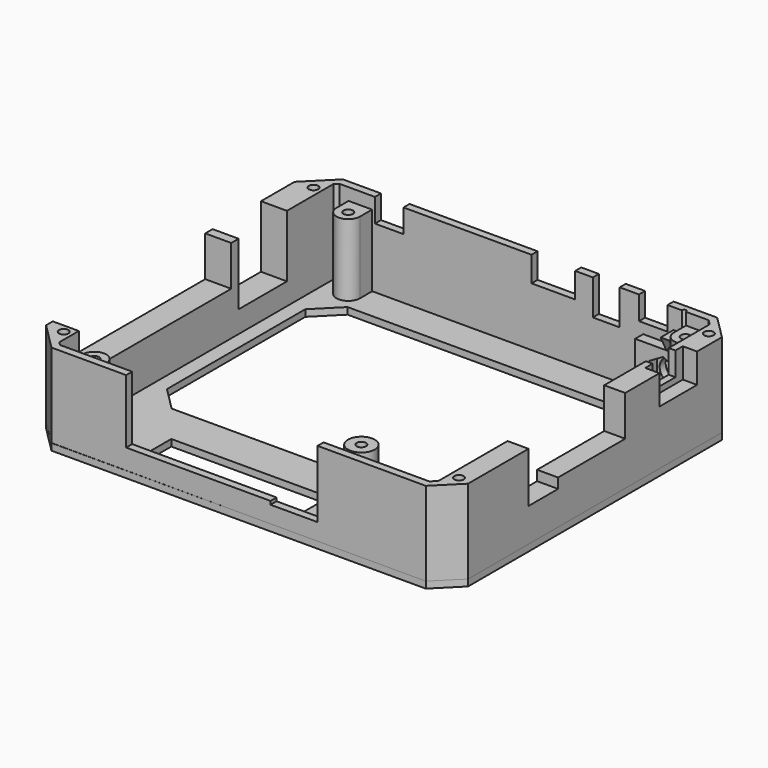
from build123d import *

# Parameters (mm, degrees)
BOX013_W                   = 14
BOX013_H                   = 3
BOX013_DEPTH               = 18
CYLINDER006_R              = 3.5
CYLINDER006_DEPTH          = 8
CYLINDER006_ROLL_ANGLE     = -90
CYLINDER_R                 = 0.6
CYLINDER_DEPTH             = 11
PRISM_DEPTH                = 10
PRISM_ROLL_ANGLE           = 90.00003
PRISM_PITCH_ANGLE          = -30.000033
PRISM_PLACEMENT_ANGLE      = -8e-06
BOX001_W                   = 10
BOX001_H                   = 18
BOX001_DEPTH               = 20
BOX002_W                   = 10
BOX002_H                   = 11
BOX002_DEPTH               = 15
BOX003_W                   = 10
BOX003_H                   = 25
BOX003_DEPTH               = 12
BOX004_W                   = 8.5
BOX004_H                   = 4
BOX004_DEPTH               = 7
BOX005_W                   = 8
BOX005_H                   = 4
BOX005_DEPTH               = 10.5
BOX006_W                   = 8.5
BOX006_H                   = 4
BOX006_DEPTH               = 7
BOX007_W                   = 13
BOX007_H                   = 4
BOX007_DEPTH               = 8
BOX008_W                   = 10
BOX008_H                   = 8.5
BOX008_DEPTH               = 8
BOX009_W                   = 5
BOX009_H                   = 14
BOX009_DEPTH               = 9
BOX010_W                   = 43
BOX010_H                   = 4
BOX010_DEPTH               = 19
SKETCH075_R                = 1.4
EXTRUDE_DEPTH              = 12
BOX011_W                   = 14
BOX011_H                   = 4
BOX011_DEPTH               = 12
BOX_W                      = 10
BOX_H                      = 56.75
BOX_DEPTH                  = 12
EXTRUDE073_DEPTH           = 25
EXTRUDE072_DEPTH           = 25
SKETCH072_R                = 4
SKETCH072_R_2              = 1.4
SKETCH072_R_3              = 2.25
EXTRUDE071_DEPTH           = 22.4
BOX012_W                   = 13
BOX012_H                   = 3
BOX012_DEPTH               = 15
EXTRUDE080_DEPTH           = 2.5
SKETCH071_W                = 47
SKETCH071_H                = 15
EXTRUDE070_DEPTH           = 2
EXTRUDE070_ROLL_ANGLE      = -0.000172
EXTRUDE070_PITCH_ANGLE     = -0.040176
EXTRUDE070_PLACEMENT_ANGLE = 2.8e-05


with BuildPart() as cube013:
    # Box013 → Box013 (new body)
    with BuildSketch(Plane(origin=(8, -54.5, 7), x_dir=(1, 0, 0), z_dir=(0, 0, 1))):
        with Locations((7, 1.5)):
            Rectangle(BOX013_W, BOX013_H)
    extrude(amount=BOX013_DEPTH)


with BuildPart() as cylinder006:
    # Cylinder006 → Cylinder006 (new body)
    with BuildSketch(Plane.XY):
        Circle(CYLINDER006_R)
    extrude(amount=CYLINDER006_DEPTH)


with BuildPart() as cylinder006_1:
    # Cylinder006 roll: moved
    add(cylinder006.part.rotate(Axis((0, 0, 0), (1, 0, 0)), CYLINDER006_ROLL_ANGLE))


with BuildPart() as cylinder006_2:
    # Cylinder006 placement: moved
    add(cylinder006_1.part.moved(Location((42.4, 48, 10))))


with BuildPart() as cylinder:
    # Cylinder → Cylinder (new body)
    with BuildSketch(Plane(origin=(46.125, 51.85, 17), x_dir=(1, 0, 0), z_dir=(0, 0, 1))):
        Circle(CYLINDER_R)
    extrude(amount=CYLINDER_DEPTH)


with BuildPart() as fusion032:
    # Prism → Prism (new body)
    with BuildSketch(Plane.XY):
        Polygon((5, 0), (2.5, 4.330127), (-2.5, 4.330127), (-5, 0), (-2.5, -4.330127), (2.5, -4.330127), align=None)
    extrude(amount=PRISM_DEPTH)


with BuildPart() as fusion032_1:
    # Prism roll: moved
    add(fusion032.part.rotate(Axis((0, 0, 0), (1, 0, 0)), PRISM_ROLL_ANGLE))


with BuildPart() as fusion032_2:
    # Prism pitch: moved
    add(fusion032_1.part.rotate(Axis((0, 0, 0), (0, 1, 0)), PRISM_PITCH_ANGLE))


with BuildPart() as fusion032_3:
    # Prism placement: moved
    add(fusion032_2.part.moved(Location((42.4, 51.75, 10))).rotate(Axis((42.4, 51.75, 10), (0, 0, 1)), PRISM_PLACEMENT_ANGLE))

    # Fusion032: union Cylinder006, Cylinder
    add(cylinder006_2.part)
    add(cylinder.part)


with BuildPart() as cube001:
    # Box001 → Box001 (new body)
    with BuildSketch(Plane(origin=(-67, 15.5, 8.5), x_dir=(1, 0, 0), z_dir=(0, 0, 1))):
        with Locations((5, 9)):
            Rectangle(BOX001_W, BOX001_H)
    extrude(amount=BOX001_DEPTH)


with BuildPart() as cube002:
    # Box002 → Box002 (new body)
    with BuildSketch(Plane(origin=(54, -25, 12), x_dir=(1, 0, 0), z_dir=(0, 0, 1))):
        with Locations((5, 5.5)):
            Rectangle(BOX002_W, BOX002_H)
    extrude(amount=BOX002_DEPTH)


with BuildPart() as cube003:
    # Box003 → Box003 (new body)
    with BuildSketch(Plane(origin=(54, -14, 15), x_dir=(1, 0, 0), z_dir=(0, 0, 1))):
        with Locations((5, 12.5)):
            Rectangle(BOX003_W, BOX003_H)
    extrude(amount=BOX003_DEPTH)


with BuildPart() as cube004:
    # Box004 → Box004 (new body)
    with BuildSketch(Plane(origin=(32.75, 51, 20), x_dir=(1, 0, 0), z_dir=(0, 0, 1))):
        with Locations((4.25, 2)):
            Rectangle(BOX004_W, BOX004_H)
    extrude(amount=BOX004_DEPTH)


with BuildPart() as cube005:
    # Box005 → Box005 (new body)
    with BuildSketch(Plane(origin=(19, 51, 16.5), x_dir=(1, 0, 0), z_dir=(0, 0, 1))):
        with Locations((4, 2)):
            Rectangle(BOX005_W, BOX005_H)
    extrude(amount=BOX005_DEPTH)


with BuildPart() as cube006:
    # Box006 → Box006 (new body)
    with BuildSketch(Plane(origin=(-45.9, 51, 20), x_dir=(1, 0, 0), z_dir=(0, 0, 1))):
        with Locations((4.25, 2)):
            Rectangle(BOX006_W, BOX006_H)
    extrude(amount=BOX006_DEPTH)


with BuildPart() as cube007:
    # Box007 → Box007 (new body)
    with BuildSketch(Plane(origin=(0.75, 51, 19.5), x_dir=(1, 0, 0), z_dir=(0, 0, 1))):
        with Locations((6.5, 2)):
            Rectangle(BOX007_W, BOX007_H)
    extrude(amount=BOX007_DEPTH)


with BuildPart() as cube008:
    # Box008 → Box008 (new body)
    with BuildSketch(Plane(origin=(54, 26.5, 20), x_dir=(1, 0, 0), z_dir=(0, 0, 1))):
        with Locations((5, 4.25)):
            Rectangle(BOX008_W, BOX008_H)
    extrude(amount=BOX008_DEPTH)


with BuildPart() as cube009:
    # Box009 → Box009 (new body)
    with BuildSketch(Plane(origin=(57, 23.75, 18.25), x_dir=(1, 0, 0), z_dir=(0, 0, 1))):
        with Locations((2.5, 7)):
            Rectangle(BOX009_W, BOX009_H)
    extrude(amount=BOX009_DEPTH)


with BuildPart() as cube010:
    # Box010 → Box010 (new body)
    with BuildSketch(Plane(origin=(-35, -56, 8), x_dir=(1, 0, 0), z_dir=(0, 0, 1))):
        with Locations((21.5, 2)):
            Rectangle(BOX010_W, BOX010_H)
    extrude(amount=BOX010_DEPTH)


with BuildPart() as extrude_body:
    # Sketch075 → Extrude (new body)
    with BuildSketch(Plane.XY.offset(27)):
        with Locations((-60, 46.5)):
            Circle(SKETCH075_R)
        with Locations((57.75, 46.5)):
            Circle(SKETCH075_R)
        with Locations((-60, -46.5)):
            Circle(SKETCH075_R)
        with Locations((57.75, -46.5)):
            Circle(SKETCH075_R)
    extrude(amount=-EXTRUDE_DEPTH)


with BuildPart() as cube011:
    # Box011 → Box011 (new body)
    with BuildSketch(Plane(origin=(8, -55, 15), x_dir=(1, 0, 0), z_dir=(0, 0, 1))):
        with Locations((7, 2)):
            Rectangle(BOX011_W, BOX011_H)
    extrude(amount=BOX011_DEPTH)


with BuildPart() as fusion:
    # Box → Box (new body)
    with BuildSketch(Plane(origin=(-67, -44, 15), x_dir=(1, 0, 0), z_dir=(0, 0, 1))):
        with Locations((5, 28.375)):
            Rectangle(BOX_W, BOX_H)
    extrude(amount=BOX_DEPTH)

    # Fusion: union Cube001, Cube002, Cube003, Cube004, Cube005, Cube006, Cube007, Cube008, Cube009, Cube010, Extrude body, Cube011
    add(cube001.part)
    add(cube002.part)
    add(cube003.part)
    add(cube004.part)
    add(cube005.part)
    add(cube006.part)
    add(cube007.part)
    add(cube008.part)
    add(cube009.part)
    add(cube010.part)
    add(extrude_body.part)
    add(cube011.part)


with BuildPart() as extrude073:
    # Sketch074 → Extrude073 (new body)
    with BuildSketch(Plane.XY):
        Polygon((53.5, -52.25), (-56.5, -52.25), (-57.5, -51.25), (-57.5, 50.75), (-56.5, 51.75), (53.5, 51.75), (55, 50.25), (55, -50.75), align=None)
    extrude(amount=EXTRUDE073_DEPTH)


with BuildPart() as cut001:
    # Sketch073 → Extrude072 (new body)
    with BuildSketch(Plane.XY):
        Polygon((54.25, -54.5), (-57.25, -54.5), (-65.25, -46.5), (-65.25, 46), (-57.25, 54), (54.25, 54), (61.25, 47), (61.25, -47.5), align=None)
    extrude(amount=EXTRUDE072_DEPTH)

    # Cut: cut Extrude073
    add(extrude073.part, mode=Mode.SUBTRACT)


with BuildPart() as cut001_1:
    # Cut placement: moved
    add(cut001.part.moved(Location((0, 0, 2))))

    # Cut001: cut Fusion
    add(fusion.part, mode=Mode.SUBTRACT)


with BuildPart() as extrude071:
    # Sketch072 → Extrude071 (new body)
    with BuildSketch(Plane.XY):
        with Locations((25.25, -42.25)):
            Circle(SKETCH072_R)
        with Locations((25.25, -42.25)):
            Circle(SKETCH072_R_2, mode=Mode.SUBTRACT)
        with Locations((53.25, -51.25)):
            Circle(SKETCH072_R_3)
        with BuildLine():
            Line((-53.75, 52.75), (-46.75, 52.75))
            Line((-46.75, 52.75), (-46.75, 47.25))
            ThreePointArc((-53.75, 47.25), (-50.25, 43.75), (-46.75, 47.25))
            Line((-53.75, 47.25), (-53.75, 52.75))
        make_face()
        with Locations((-50.25, 47.25)):
            Circle(SKETCH072_R_2, mode=Mode.SUBTRACT)
        with BuildLine():
            Line((46.75, 52.75), (53.75, 52.75))
            Line((53.75, 52.75), (53.75, 47.25))
            ThreePointArc((46.75, 47.25), (50.25, 43.75), (53.75, 47.25))
            Line((46.75, 47.25), (46.75, 52.75))
        make_face()
        with Locations((50.25, 47.25)):
            Circle(SKETCH072_R_2, mode=Mode.SUBTRACT)
        with BuildLine():
            Line((-53.75, -52.75), (-46.75, -52.75))
            Line((-46.75, -52.75), (-46.75, -47.25))
            ThreePointArc((-46.75, -47.25), (-50.25, -43.75), (-53.75, -47.25))
            Line((-53.75, -47.25), (-53.75, -52.75))
        make_face()
        with Locations((-50.25, -47.25)):
            Circle(SKETCH072_R_2, mode=Mode.SUBTRACT)
    extrude(amount=EXTRUDE071_DEPTH)


with BuildPart() as extrude071_1:
    # Extrude071 placement: moved
    add(extrude071.part.moved(Location((0, 0, 1))))


with BuildPart() as cube012:
    # Box012 → Box012 (new body)
    with BuildSketch(Plane(origin=(34, 48.75, 2), x_dir=(1, 0, 0), z_dir=(0, 0, 1))):
        with Locations((6.5, 1.5)):
            Rectangle(BOX012_W, BOX012_H)
    extrude(amount=BOX012_DEPTH)


with BuildPart() as extrude080:
    # Sketch091 → Extrude080 (new body)
    with BuildSketch(Plane.YZ):
        Polygon((0, 0), (0, 5), (-5, 5), (-2.5, 0), align=None)
    extrude(amount=EXTRUDE080_DEPTH)


with BuildPart() as extrude080_1:
    # Extrude080 placement: moved
    add(extrude080.part.moved(Location((43, 52, 16))))


with BuildPart() as cut005:
    # Sketch071 → Extrude070 (new body)
    with BuildSketch(Plane.XY):
        Polygon((54.25, -54.5), (-57.25, -54.5), (-65.25, -46.5), (-65.25, 46), (-57.25, 54), (54.25, 54), (61.25, 47), (61.25, -47.5), align=None)
        Polygon((-46.25, 42), (42.25, 42), (49.25, 35), (49.25, -16.5), (42.25, -23.5), (-46.25, -23.5), (-53.25, -16.5), (-53.25, 35), align=None, mode=Mode.SUBTRACT)
        with Locations((-13.25, -43)):
            Rectangle(SKETCH071_W, SKETCH071_H, mode=Mode.SUBTRACT)
    extrude(amount=EXTRUDE070_DEPTH)


with BuildPart() as cut005_1:
    # Extrude070 roll: moved
    add(cut005.part.rotate(Axis((0, 0, 0), (1, 0, 0)), EXTRUDE070_ROLL_ANGLE))


with BuildPart() as cut005_2:
    # Extrude070 pitch: moved
    add(cut005_1.part.rotate(Axis((0, 0, 0), (0, 1, 0)), EXTRUDE070_PITCH_ANGLE))


with BuildPart() as cut005_3:
    # Extrude070 placement: moved
    add(cut005_2.part.rotate(Axis((0, 0, 0), (0, 0, 1)), EXTRUDE070_PLACEMENT_ANGLE))

    # Fusion027: union Extrude071, Cube012, Extrude080
    add(extrude071_1.part)
    add(cube012.part)
    add(extrude080_1.part)

    # Fusion028: union Cut001
    add(cut001_1.part)

    # Cut003: cut Fusion032
    add(fusion032_3.part, mode=Mode.SUBTRACT)

    # Cut005: cut Cube013
    add(cube013.part, mode=Mode.SUBTRACT)


solid = cut005_3.part
